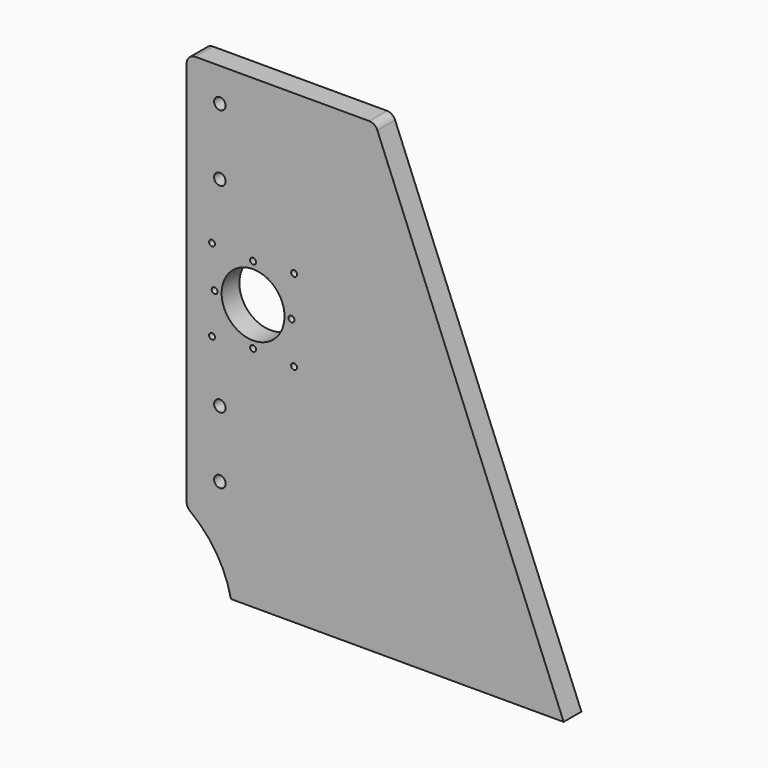
from build123d import *

# Parameters (mm, degrees)
F0_R     = 3.302
F0_R_2   = 1.7
F0_R_3   = 18
F1_DEPTH = 12.7
F2_R     = 5.08


with BuildPart() as f1:
    # F0 (on Front) → F1 (new body)
    with BuildSketch(Plane.XZ):
        with BuildLine():
            Line((108.426517, -114.299545), (0.476517, 152.400455))
            Line((0.476517, 152.400455), (-107.473483, 152.400455))
            Line((-107.473483, 152.400455), (-107.473483, -76.199545))
            ThreePointArc((-107.473483, -76.199545), (-91.096294, -92.798085), (-82.073483, -114.299545))
            Line((-82.073483, -114.299545), (108.426517, -114.299545))
        make_face()
        with Locations((-88.423483, -57.137189)):
            Circle(F0_R, mode=Mode.SUBTRACT)
        with Locations((-88.423483, -19.037189)):
            Circle(F0_R, mode=Mode.SUBTRACT)
        with Locations((-92.919483, 14.618093)):
            Circle(F0_R_2, mode=Mode.SUBTRACT)
        with Locations((-69.424483, 16.113093)):
            Circle(F0_R_2, mode=Mode.SUBTRACT)
        with Locations((-45.929483, 14.618093)):
            Circle(F0_R_2, mode=Mode.SUBTRACT)
        with Locations((-91.424483, 38.113093)):
            Circle(F0_R_2, mode=Mode.SUBTRACT)
        with Locations((-69.424483, 38.113093)):
            Circle(F0_R_3, mode=Mode.SUBTRACT)
        with Locations((-92.919483, 61.608093)):
            Circle(F0_R_2, mode=Mode.SUBTRACT)
        with Locations((-69.424483, 60.113093)):
            Circle(F0_R_2, mode=Mode.SUBTRACT)
        with Locations((-47.424483, 38.113093)):
            Circle(F0_R_2, mode=Mode.SUBTRACT)
        with Locations((-45.929483, 61.608093)):
            Circle(F0_R_2, mode=Mode.SUBTRACT)
        with Locations((-88.423483, 95.250455)):
            Circle(F0_R, mode=Mode.SUBTRACT)
        with Locations((-88.423483, 133.350455)):
            Circle(F0_R, mode=Mode.SUBTRACT)
    extrude(amount=F1_DEPTH)

    # F2
    f2_edges = [f1.edges().sort_by_distance(p)[0] for p in [
        (0.476517, -6.35, 152.400455),
        (-107.473483, -6.35, 152.400455),
        (-107.473483, -6.35, -76.199545),
    ]]
    fillet(f2_edges, radius=F2_R)


solid = f1.part
